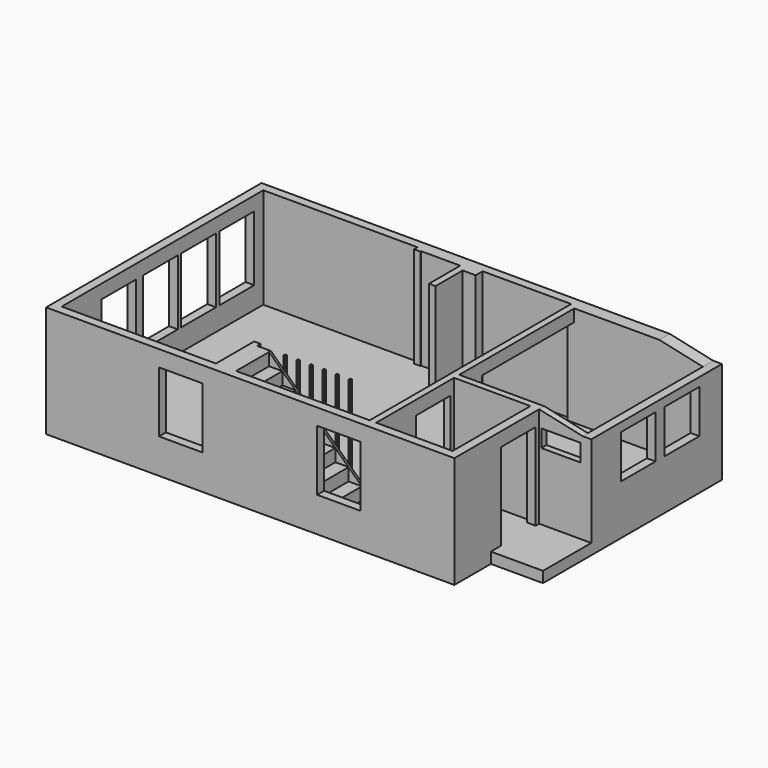
from build123d import *

# Parameters (mm, degrees)
F0_W      = 2400
F0_H      = 1000
F1_DEPTH  = 250
F2_W      = 1760
F2_H      = 2240
F3_DEPTH  = 2320
F4_W      = 1000
F4_H      = 2000
F5_DEPTH  = 9400.001
F6_W      = 1000
F6_H      = 1400
F6_W_2    = 900
F6_H_2    = 400
F7_DEPTH  = 5900
F8_W      = 1000
F8_H      = 1000
F9_DEPTH  = 200
F10_W     = 1000
F10_H     = 1500
F11_DEPTH = 200
F12_W     = 150
F12_H     = 2660
F13_DEPTH = 280
F15_DEPTH = 950
F17_DEPTH = 50
F19_DEPTH = 2320
F21_DEPTH = 3760.001


with BuildPart() as f1:
    # F0 (on Top) → F1 (new body)
    with BuildSketch(Plane.XY):
        Polygon((10600, 0), (0, 0), (0, -6200), (9400, -6200), (9400, -5150), (10600, -5150), align=None)
        with Locations((5100, -5500)):
            Rectangle(F0_W, F0_H, mode=Mode.SUBTRACT)
    extrude(amount=F1_DEPTH)

    # F2 (on face) → F3 (join)
    with BuildSketch(Plane.XY.offset(250)):
        Polygon((10600, 0), (0, 0), (0, -6200), (9400, -6200), (9400, -3760), (10600, -3760), align=None)
        with Locations((8320, -4880)):
            Rectangle(F2_W, F2_H, mode=Mode.SUBTRACT)
        Polygon((200, -6000), (200, -200), (3750, -200), (3750, -300), (3900, -300), (3900, -280), (4800, -280), (4800, -1180), (4950, -1180), (4950, -400), (5250, -400), (5250, -200), (7290, -200), (7290, -300), (7440, -300), (10400, -300), (10400, -3610), (7440, -3610), (7440, -2960), (7290, -2960), (7290, -6000), (3900, -6000), (3900, -4900), (3750, -4900), (3750, -6000), align=None, mode=Mode.SUBTRACT)
    extrude(amount=F3_DEPTH)

    # F4 (on face) → F5 (cut, through all)
    with BuildSketch(Plane.YZ.offset(9400)):
        with Locations((-4360, 1250)):
            Rectangle(F4_W, F4_H)
    extrude(amount=-F5_DEPTH, mode=Mode.SUBTRACT)

    # F6 (on face) → F7 (cut, through all)
    with BuildSketch(Plane.XZ.offset(6200)):
        with Locations((6740, 1500)):
            Rectangle(F6_W, F6_H)
        with Locations((3100, 1500)):
            Rectangle(F6_W, F6_H)
        with Locations((9900, 2000)):
            Rectangle(F6_W_2, F6_H_2)
    extrude(amount=-F7_DEPTH, mode=Mode.SUBTRACT)

    # F8 (on face) → F9 (cut, through all)
    with BuildSketch(Plane(origin=(10400, 0, 0), x_dir=(0, -1, 0), z_dir=(-1, 0, 0))):
        with Locations((1150, 1650)):
            Rectangle(F8_W, F8_H)
        with Locations((2410, 1650)):
            Rectangle(F8_W, F8_H)
    extrude(amount=-F9_DEPTH, mode=Mode.SUBTRACT)

    # F10 (on face) → F11 (cut, through all)
    with BuildSketch(Plane.YZ.offset(200)):
        with Locations((-3160, 1500)):
            Rectangle(F10_W, F10_H)
        with Locations((-2060, 1500)):
            Rectangle(F10_W, F10_H)
        with Locations((-960, 1500)):
            Rectangle(F10_W, F10_H)
    extrude(amount=-F11_DEPTH, mode=Mode.SUBTRACT)

    # F12 (on face) → F13 (join)
    with BuildSketch(Plane.XY.offset(2570)):
        with Locations((7365, -1630)):
            Rectangle(F12_W, F12_H)
    extrude(amount=-F13_DEPTH)

    # F14 (on face) → F15 (join)
    with BuildSketch(Plane(origin=(0, -6000, 0), x_dir=(-1, 0, 0), z_dir=(0, 1, 0))):
        Polygon((-6350, 540), (-6350, 250), (-6300, 250), (-6300, 490), (-5995, 490), (-5995, 780), (-5690, 780), (-5690, 1070), (-5385, 1070), (-5385, 1360), (-5080, 1360), (-5080, 1650), (-4775, 1650), (-4775, 1940), (-4470, 1940), (-4470, 2230), (-4165, 2230), (-4165, 2520), (-3900, 2520), (-3900, 2570), (-4215, 2570), (-4215, 2280), (-4520, 2280), (-4520, 1990), (-4825, 1990), (-4825, 1700), (-5130, 1700), (-5130, 1410), (-5435, 1410), (-5435, 1120), (-5740, 1120), (-5740, 830), (-6045, 830), (-6045, 540), align=None)
    extrude(amount=F15_DEPTH)

    # F16 (on face) → F17 (join)
    with BuildSketch(Plane(origin=(0, -5050, 0), x_dir=(-1, 0, 0), z_dir=(0, 1, 0))):
        Polygon((-4215, 2570), (-6350, 540), (-6350, 250), (-6300, 250), (-4165, 2230), (-3900, 2475.761124), (-3900, 2570), align=None)
    extrude(amount=F17_DEPTH)

    # F18 (on face) → F19 (join)
    with BuildSketch(Plane.XY.offset(250)):
        with BuildLine():
            Line((6005, -5000), (6045, -5000))
            ThreePointArc((6045, -5000), (6048.535534, -4998.535534), (6050, -4995))
            Line((6050, -4995), (6050, -4955))
            ThreePointArc((6050, -4955), (6048.535534, -4951.464466), (6045, -4950))
            Line((6045, -4950), (6005, -4950))
            ThreePointArc((6005, -4950), (6001.464466, -4951.464466), (6000, -4955))
            Line((6000, -4955), (6000, -4995))
            ThreePointArc((6000, -4995), (6001.464466, -4998.535534), (6005, -5000))
        make_face()
        with BuildLine():
            Line((5705, -5000), (5745, -5000))
            ThreePointArc((5745, -5000), (5748.535534, -4998.535534), (5750, -4995))
            Line((5750, -4995), (5750, -4955))
            ThreePointArc((5750, -4955), (5748.535534, -4951.464466), (5745, -4950))
            Line((5745, -4950), (5705, -4950))
            ThreePointArc((5705, -4950), (5701.464466, -4951.464466), (5700, -4955))
            Line((5700, -4955), (5700, -4995))
            ThreePointArc((5700, -4995), (5701.464466, -4998.535534), (5705, -5000))
        make_face()
        with BuildLine():
            Line((5405, -5000), (5445, -5000))
            ThreePointArc((5445, -5000), (5448.535534, -4998.535534), (5450, -4995))
            Line((5450, -4995), (5450, -4955))
            ThreePointArc((5450, -4955), (5448.535534, -4951.464466), (5445, -4950))
            Line((5445, -4950), (5405, -4950))
            ThreePointArc((5405, -4950), (5401.464466, -4951.464466), (5400, -4955))
            Line((5400, -4955), (5400, -4995))
            ThreePointArc((5400, -4995), (5401.464466, -4998.535534), (5405, -5000))
        make_face()
        with BuildLine():
            Line((5105, -5000), (5145, -5000))
            ThreePointArc((5145, -5000), (5148.535534, -4998.535534), (5150, -4995))
            Line((5150, -4995), (5150, -4955))
            ThreePointArc((5150, -4955), (5148.535534, -4951.464466), (5145, -4950))
            Line((5145, -4950), (5105, -4950))
            ThreePointArc((5105, -4950), (5101.464466, -4951.464466), (5100, -4955))
            Line((5100, -4955), (5100, -4995))
            ThreePointArc((5100, -4995), (5101.464466, -4998.535534), (5105, -5000))
        make_face()
        with BuildLine():
            Line((4805, -5000), (4845, -5000))
            ThreePointArc((4845, -5000), (4848.535534, -4998.535534), (4850, -4995))
            Line((4850, -4995), (4850, -4955))
            ThreePointArc((4850, -4955), (4848.535534, -4951.464466), (4845, -4950))
            Line((4845, -4950), (4805, -4950))
            ThreePointArc((4805, -4950), (4801.464466, -4951.464466), (4800, -4955))
            Line((4800, -4955), (4800, -4995))
            ThreePointArc((4800, -4995), (4801.464466, -4998.535534), (4805, -5000))
        make_face()
        with BuildLine():
            Line((4505, -5000), (4545, -5000))
            ThreePointArc((4545, -5000), (4548.535534, -4998.535534), (4550, -4995))
            Line((4550, -4995), (4550, -4955))
            ThreePointArc((4550, -4955), (4548.535534, -4951.464466), (4545, -4950))
            Line((4545, -4950), (4505, -4950))
            ThreePointArc((4505, -4950), (4501.464466, -4951.464466), (4500, -4955))
            Line((4500, -4955), (4500, -4995))
            ThreePointArc((4500, -4995), (4501.464466, -4998.535534), (4505, -5000))
        make_face()
    extrude(amount=F19_DEPTH)

    # F20 (on face) → F21 (cut, through all)
    with BuildSketch(Plane.XZ.offset(3760)):
        Polygon((10600, 2570), (9400, 2570), (10400, 2350), (10600, 2350), align=None)
    extrude(amount=-F21_DEPTH, mode=Mode.SUBTRACT)


solid = f1.part
